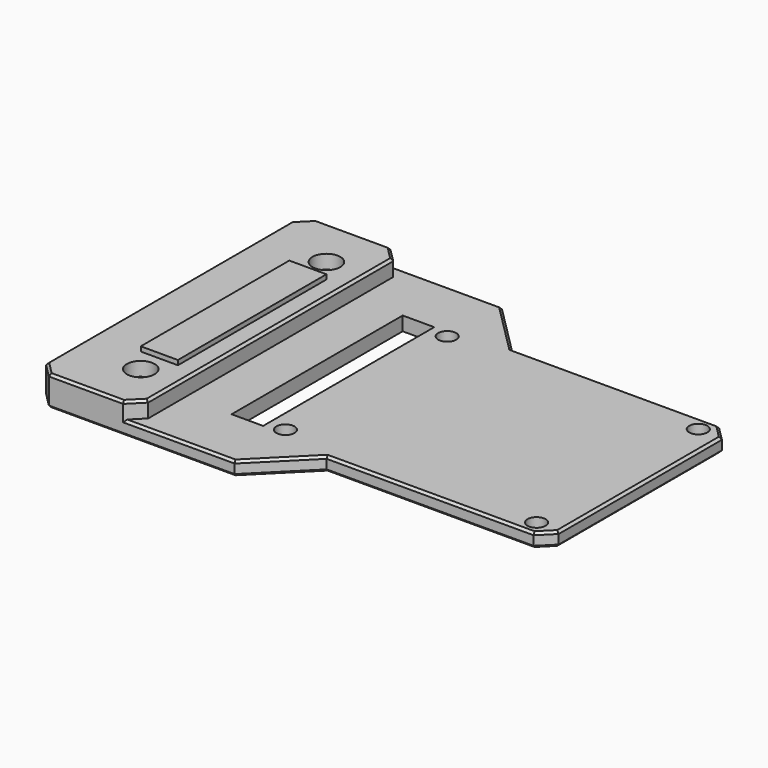
from build123d import *

# Parameters (mm, degrees)
SKETCH_R        = 1.95
SKETCH_W        = 6.8
SKETCH_H        = 46.08113
PAD_DEPTH       = 3
SKETCH001_W     = 22
SKETCH001_H     = 72
PAD001_DEPTH    = 6.5
SKETCH002_W     = 8
SKETCH002_H     = 40
PAD002_DEPTH    = 7.5
SKETCH003_R     = 6.1
POCKET_DEPTH    = 3.5
SKETCH004_R     = 3
POCKET001_DEPTH = 6.5
CHAMFER_SIZE    = 3
CHAMFER001_SIZE = 0.5


with BuildPart() as part:
    # Sketch → Pad (new body)
    with BuildSketch(Plane.XY):
        Polygon((54.045437, 24.98), (101.633751, 24.98), (101.633751, -24.98), (54.045437, -24.98), (43.025437, -36), (0, -36), (0, 36), (43.025437, 36), align=None)
        with Locations((42.6, 21.78)):
            Circle(SKETCH_R, mode=Mode.SUBTRACT)
        with Locations((42.6, -21.78)):
            Circle(SKETCH_R, mode=Mode.SUBTRACT)
        with Locations((96.7, 21.78)):
            Circle(SKETCH_R, mode=Mode.SUBTRACT)
        with Locations((96.7, -21.78)):
            Circle(SKETCH_R, mode=Mode.SUBTRACT)
        with Locations((35.4, 0)):
            Rectangle(SKETCH_W, SKETCH_H, mode=Mode.SUBTRACT)
    extrude(amount=PAD_DEPTH)

    # Sketch001 → Pad001 (join)
    with BuildSketch(Plane.XY):
        with Locations((11, 0)):
            Rectangle(SKETCH001_W, SKETCH001_H)
    extrude(amount=PAD001_DEPTH)

    # Sketch002 → Pad002 (join)
    with BuildSketch(Plane.XY):
        with Locations((14, 0)):
            Rectangle(SKETCH002_W, SKETCH002_H)
    extrude(amount=PAD002_DEPTH)

    # Sketch003 → Pocket (cut)
    with BuildSketch(Plane.XY):
        with Locations((14, 25)):
            Circle(SKETCH003_R)
        with Locations((14, -25)):
            Circle(SKETCH003_R)
    extrude(amount=POCKET_DEPTH, mode=Mode.SUBTRACT)

    # Sketch004 → Pocket001 (cut)
    with BuildSketch(Plane.XY):
        with Locations((14, 25)):
            Circle(SKETCH004_R)
        with Locations((14, -25)):
            Circle(SKETCH004_R)
    extrude(amount=POCKET001_DEPTH, mode=Mode.SUBTRACT)

    # Chamfer
    chamfer_edges = [part.edges().sort_by_distance(p)[0] for p in [
        (101.633751, -24.98, 1.5),
        (101.633751, 24.98, 1.5),
        (22, 36, 4.75),
        (0, 36, 1.5),
        (0, 36, 4.75),
        (0, -36, 4.75),
        (0, -36, 1.5),
        (22, -36, 4.75),
    ]]
    chamfer(chamfer_edges, length=CHAMFER_SIZE)

    # Chamfer001
    chamfer001_edges = [part.edges().sort_by_distance(p)[0] for p in [
        (48.535437, 30.49, 3),
        (76.339594, 24.98, 3),
        (100.133751, 23.48, 3),
        (101.633751, 0, 3),
        (100.133751, -23.48, 3),
        (76.339594, -24.98, 3),
        (76.339594, -24.98, 0),
        (48.535437, -30.49, 3),
        (48.535437, -30.49, 0),
        (32.512719, -36, 0),
        (32.512719, -36, 3),
        (1.5, -34.5, 0),
        (0, 0, 0),
        (1.5, 34.5, 6.5),
        (32.512719, 36, 3),
        (11, 36, 6.5),
        (1.5, 34.5, 0),
        (12.5, 36, 0),
        (100.133751, -23.48, 0),
        (76.339594, 24.98, 0),
        (22, 0, 6.5),
        (44.55, 21.78, 1.5),
        (20.5, 34.5, 6.5),
        (20.5, -36, 3),
        (0, 0, 6.5),
        (12.5, -36, 0),
        (20.5, 36, 3),
        (32.512719, 36, 0),
        (48.535437, 30.49, 0),
        (100.133751, 23.48, 0),
        (101.633751, 0, 0),
        (20.5, -34.5, 6.5),
        (11, -36, 6.5),
        (1.5, -34.5, 6.5),
    ]]
    chamfer(chamfer001_edges, length=CHAMFER001_SIZE)


solid = part.part
